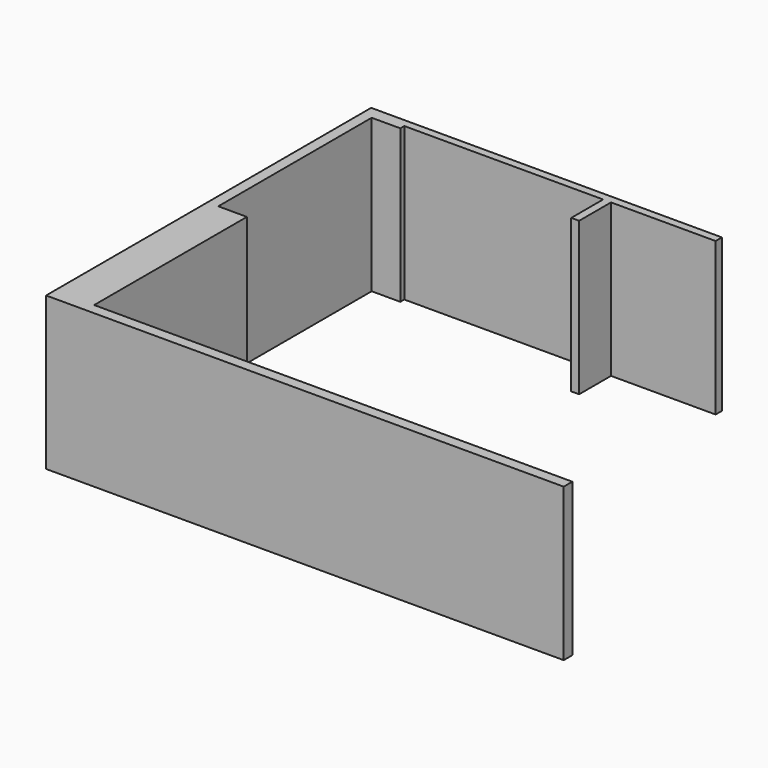
from build123d import *

# Parameters (mm, degrees)
F1_DEPTH = 2336.8


with BuildPart() as f1:
    # F0 (on Top) → F1 (new body)
    with BuildSketch(Plane.XY):
        Polygon((7315.2, 0), (0, 0), (0, 2921), (-438.15, 2921), (-438.15, 5854.7), (0, 5854.7), (0, 5930.9), (3041.65, 5930.9), (3041.65, 5321.3), (3162.3, 5321.3), (3162.3, 5930.9), (4762.5, 5930.9), (4762.5, 6051.55), (0, 6051.55), (-603.25, 6051.55), (-603.25, -165.1), (7315.2, -165.1), align=None)
    extrude(amount=-F1_DEPTH)


solid = f1.part
